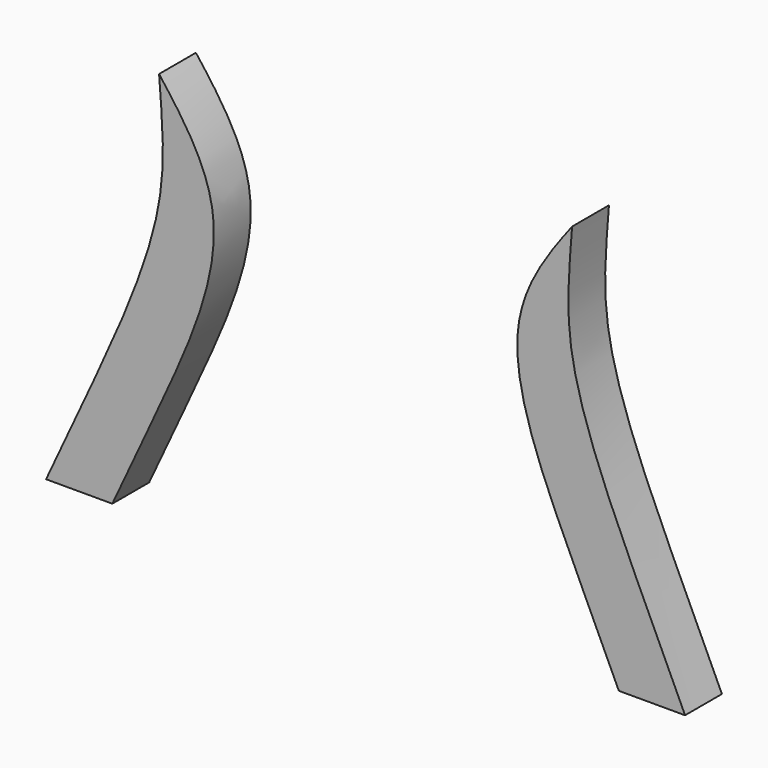
from build123d import *

# Parameters (mm, degrees)
F1_DEPTH = 3.556


with BuildPart() as f1:
    # F0 (on Front) → F1 (new body)
    with BuildSketch(Plane.XZ):
        with BuildLine():
            add(Edge.make_bspline(
                [(-24.6647372842, 0), (-23.4565678995, 2.5443287289), (-20.7546127973, 8.3797450547), (-14.8759715948, 21.3762612389), (-15.7761463108, 27.8073529341), (-15.9418433905, 30.3797386587)],
                knots=[0, 0, 0, 0, 0.3124282727, 0.6971858871, 1, 1, 1, 1], degree=3))
            add(Edge.make_bspline(
                [(-24.6647372842, 0), (-22.9602636149, 0), (-21.2557899455, 0), (-19.5513162762, 0)],
                knots=[0, 0, 0, 0, 5.113421008, 5.113421008, 5.113421008, 5.113421008], degree=3))
            add(Edge.make_bspline(
                [(-19.5513162762, 0), (-18.3654232373, 2.5223862294), (-15.6993630667, 8.2784864085), (-9.494077625, 21.8033298283), (-14.0371485402, 27.871922481), (-15.9418433905, 30.3797386587)],
                knots=[0, 0, 0, 0, 0.3085996873, 0.6848139653, 1, 1, 1, 1], degree=3))
        make_face()
    extrude(amount=F1_DEPTH)


with BuildPart() as f1b:
    # F0 (on Front) → F1, piece 2 (new body)
    with BuildSketch(Plane.XZ):
        with BuildLine():
            add(Edge.make_bspline(
                [(19.5513162762, 0), (18.3654232373, 2.5223862294), (15.6993630667, 8.2784864085), (9.494077625, 21.8033298283), (14.0371485402, 27.871922481), (15.9418433905, 30.3797386587)],
                knots=[0, 0, 0, 0, 0.3085996873, 0.6848139653, 1, 1, 1, 1], degree=3))
            add(Edge.make_bspline(
                [(24.6647372842, 0), (22.9602636149, 0), (21.2557899455, 0), (19.5513162762, 0)],
                knots=[0, 0, 0, 0, 5.113421008, 5.113421008, 5.113421008, 5.113421008], degree=3))
            add(Edge.make_bspline(
                [(24.6647372842, 0), (23.4565678995, 2.5443287289), (20.7546127973, 8.3797450547), (14.8759715948, 21.3762612389), (15.7761463108, 27.8073529341), (15.9418433905, 30.3797386587)],
                knots=[0, 0, 0, 0, 0.3124282727, 0.6971858871, 1, 1, 1, 1], degree=3))
        make_face()
    extrude(amount=F1_DEPTH)


solid = Compound([f1.part, f1b.part])
